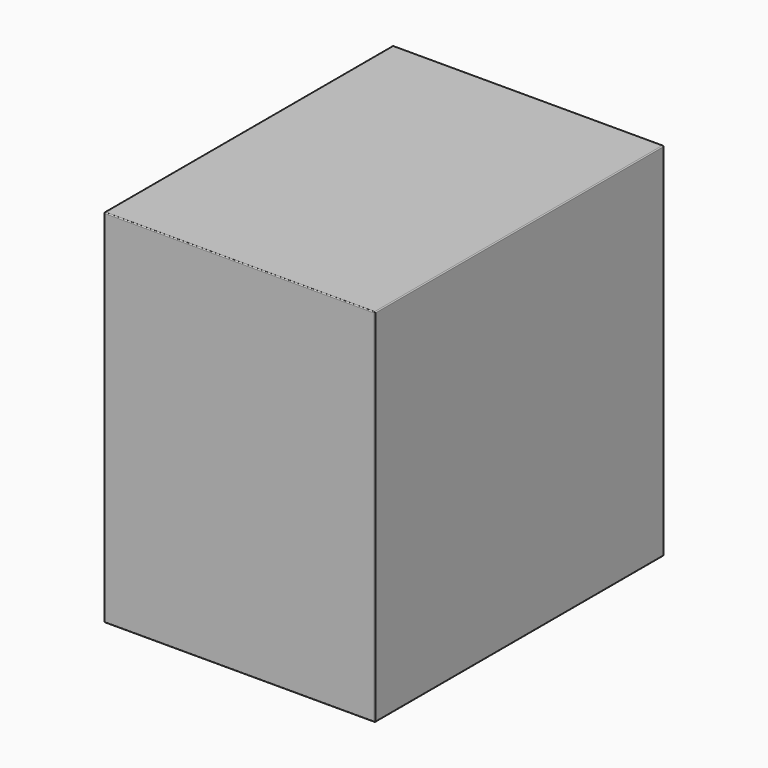
from build123d import *

# Parameters (mm, degrees)
SKETCH_W  = 300
SKETCH_H  = 400
PAD_DEPTH = 400
FILLET_R  = 1


with BuildPart() as part:
    # Sketch → Pad (new body)
    with BuildSketch(Plane.XY):
        with Locations((150, -200)):
            Rectangle(SKETCH_W, SKETCH_H)
    extrude(amount=PAD_DEPTH)

    # Fillet
    fillet_edges = [part.edges().sort_by_distance(p)[0] for p in [
        (0, 0, 200),
        (300, 0, 200),
        (150, 0, 0),
        (150, 0, 400),
        (300, -400, 200),
        (300, -200, 0),
        (300, -200, 400),
        (0, -400, 200),
        (150, -400, 0),
        (150, -400, 400),
        (0, -200, 0),
        (0, -200, 400),
    ]]
    fillet(fillet_edges, radius=FILLET_R)


solid = part.part
